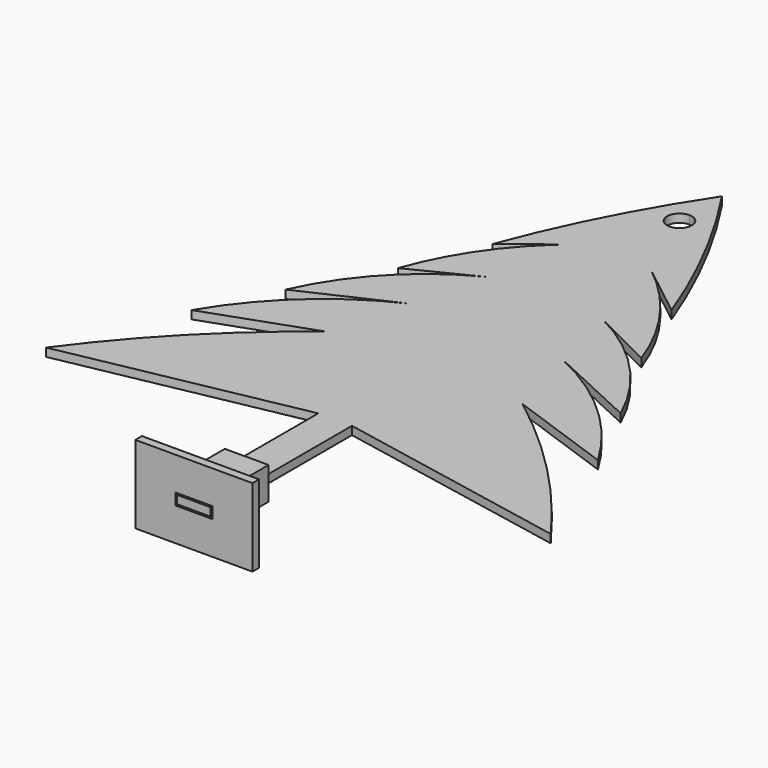
from build123d import *

# Parameters (mm, degrees)
F1_DEPTH = 1.27
F2_W     = 6.723348
F2_H     = 4.986004
F2_W_2   = 5.703948
F2_H_2   = 1.765178
F3_DEPTH = 10.16
F2_W_3   = 18.036448
F2_H_3   = 11.996722
F4_DEPTH = 1.27


with BuildPart() as f1:
    # F0 (on Top) → F1 (new body)
    with BuildSketch(Plane.XY):
        with BuildLine():
            ThreePointArc((13.768193, 14.852569), (7.661095, 28.701133), (0, 41.75437))
            Line((0, 41.75437), (0, 35.491454))
            ThreePointArc((0, 35.491454), (1.347038, 34.933492), (1.905, 33.586454))
            ThreePointArc((1.905, 33.586454), (1.347038, 32.239415), (0, 31.681454))
            Line((0, 31.681454), (0, -59.84563))
            Line((0, -59.84563), (2.594433, -59.84563))
            Line((2.594433, -59.84563), (2.594433, -32.674071))
            Line((2.594433, -32.674071), (38.841712, -39.734574))
            ThreePointArc((38.841712, -39.734574), (27.846151, -26.720447), (15.074104, -15.444602))
            Line((15.074104, -15.444602), (31.267419, -21.190618))
            ThreePointArc((31.267419, -21.190618), (22.828383, -10.815589), (11.678733, -3.430206))
            Line((11.678733, -3.430206), (25.782588, -9.959769))
            ThreePointArc((25.782588, -9.959769), (18.838181, 0.396342), (8.805725, 7.800641))
            Line((8.805725, 7.800641), (18.730659, 2.838174))
            ThreePointArc((18.730659, 2.838174), (13.399286, 13.064628), (5.410352, 21.382131))
            Line((5.410352, 21.382131), (13.768193, 14.852569))
        make_face()
        with BuildLine():
            Line((0, 35.491454), (0, 41.75437))
            ThreePointArc((0, 41.75437), (-7.661095, 28.701133), (-13.768193, 14.852569))
            Line((-13.768193, 14.852569), (-5.410352, 21.382131))
            ThreePointArc((-5.410352, 21.382131), (-13.399286, 13.064628), (-18.730659, 2.838174))
            Line((-18.730659, 2.838174), (-8.805725, 7.800641))
            ThreePointArc((-8.805725, 7.800641), (-18.838181, 0.396342), (-25.782588, -9.959769))
            Line((-25.782588, -9.959769), (-11.678733, -3.430206))
            ThreePointArc((-11.678733, -3.430206), (-22.828383, -10.815589), (-31.267419, -21.190618))
            Line((-31.267419, -21.190618), (-15.074104, -15.444602))
            ThreePointArc((-15.074104, -15.444602), (-27.846151, -26.720447), (-38.841712, -39.734574))
            Line((-38.841712, -39.734574), (-2.594433, -32.674071))
            Line((-2.594433, -32.674071), (-2.594433, -59.84563))
            Line((-2.594433, -59.84563), (0, -59.84563))
            Line((0, -59.84563), (0, 31.681454))
            ThreePointArc((0, 31.681454), (-1.905, 33.586454), (0, 35.491454))
        make_face()
        with BuildLine():
            Line((0, 35.491454), (0, 41.75437))
            ThreePointArc((0, 41.75437), (-7.661095, 28.701133), (-13.768193, 14.852569))
            Line((-13.768193, 14.852569), (-5.410352, 21.382131))
            ThreePointArc((-5.410352, 21.382131), (-13.399286, 13.064628), (-18.730659, 2.838174))
            Line((-18.730659, 2.838174), (-8.805725, 7.800641))
            ThreePointArc((-8.805725, 7.800641), (-18.838181, 0.396342), (-25.782588, -9.959769))
            Line((-25.782588, -9.959769), (-11.678733, -3.430206))
            ThreePointArc((-11.678733, -3.430206), (-22.828383, -10.815589), (-31.267419, -21.190618))
            Line((-31.267419, -21.190618), (-15.074104, -15.444602))
            ThreePointArc((-15.074104, -15.444602), (-27.846151, -26.720447), (-38.841712, -39.734574))
            Line((-38.841712, -39.734574), (-2.594433, -32.674071))
            Line((-2.594433, -32.674071), (-2.594433, -59.84563))
            Line((-2.594433, -59.84563), (0, -59.84563))
            Line((0, -59.84563), (0, 31.681454))
            ThreePointArc((0, 31.681454), (-1.905, 33.586454), (0, 35.491454))
        make_face()
    extrude(amount=F1_DEPTH)


with BuildPart() as f3:
    # F2 (on face) → F3 (new body)
    with BuildSketch(Plane.XZ.offset(59.84563)):
        with Locations((0, 0.635)):
            Rectangle(F2_W, F2_H)
        with Locations((0, 0.635)):
            Rectangle(F2_W_2, F2_H_2, mode=Mode.SUBTRACT)
    extrude(amount=-F3_DEPTH)

    # F2 (on face) → F4 (join)
    with BuildSketch(Plane.XZ.offset(59.84563)):
        with Locations((0, 0.635)):
            Rectangle(F2_W_3, F2_H_3)
        with Locations((0, 0.635)):
            Rectangle(F2_W, F2_H, mode=Mode.SUBTRACT)
        with Locations((0, 0.635)):
            Rectangle(F2_W, F2_H)
        with Locations((0, 0.635)):
            Rectangle(F2_W_2, F2_H_2, mode=Mode.SUBTRACT)
    extrude(amount=-F4_DEPTH)


solid = Compound([f1.part, f3.part])
